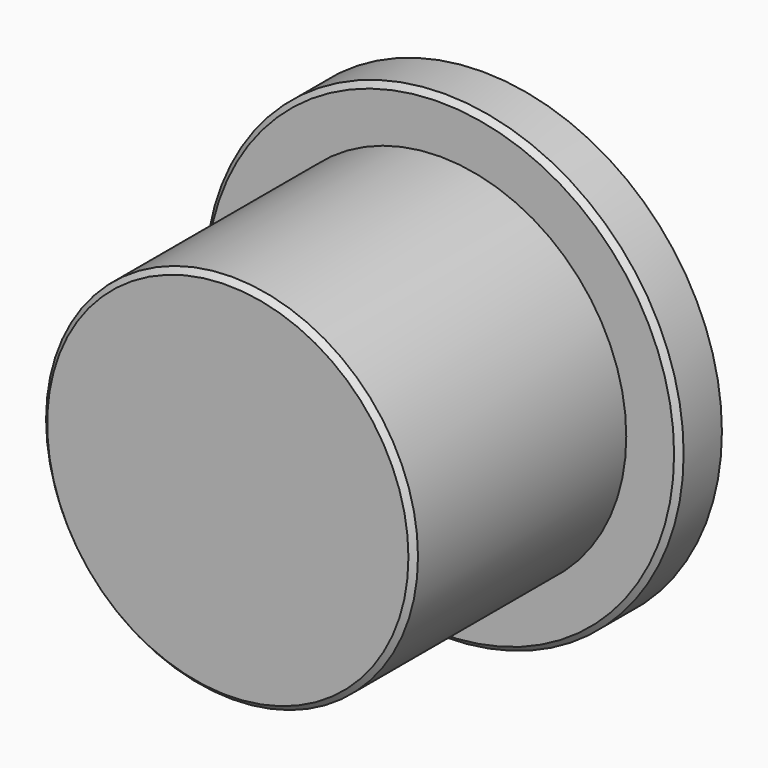
from build123d import *

# Parameters (mm, degrees)
F0_R           = 17.5
F1_DEPTH       = 30
F0_R_2         = 22.5
F2_DEPTH       = 5
F4_D           = 7
F4_DEPTH       = 20
F4_CBORE_D     = 14
F4_CBORE_DEPTH = 3
F4_TIP         = 2.1030121666
F5_SIZE        = 0.5


with BuildPart() as f1:
    # F0 (on Front) → F1 (new body)
    with BuildSketch(Plane.XZ):
        Circle(F0_R)
    extrude(amount=F1_DEPTH)

    # F0 (on Front) → F2 (join)
    with BuildSketch(Plane.XZ):
        Circle(F0_R_2)
        Circle(F0_R, mode=Mode.SUBTRACT)
    extrude(amount=F2_DEPTH)

    # F4
    with Locations(Plane(origin=(0, 0, 0), x_dir=(-1, 0, 0), z_dir=(0, 1, 0))):
        with Locations((0, 0)):
            CounterBoreHole(F4_D / 2, F4_CBORE_D / 2, F4_CBORE_DEPTH, depth=F4_DEPTH)
            with Locations((0, 0, -(F4_DEPTH + F4_TIP / 2))):  # 118° drill point
                Cone(0, F4_D / 2, F4_TIP, mode=Mode.SUBTRACT)

    # F5
    f5_edges = [f1.edges().sort_by_distance(p)[0] for p in [
        (-17.5, -30, 0),
        (-22.5, -5, 0),
    ]]
    chamfer(f5_edges, length=F5_SIZE)


solid = f1.part
